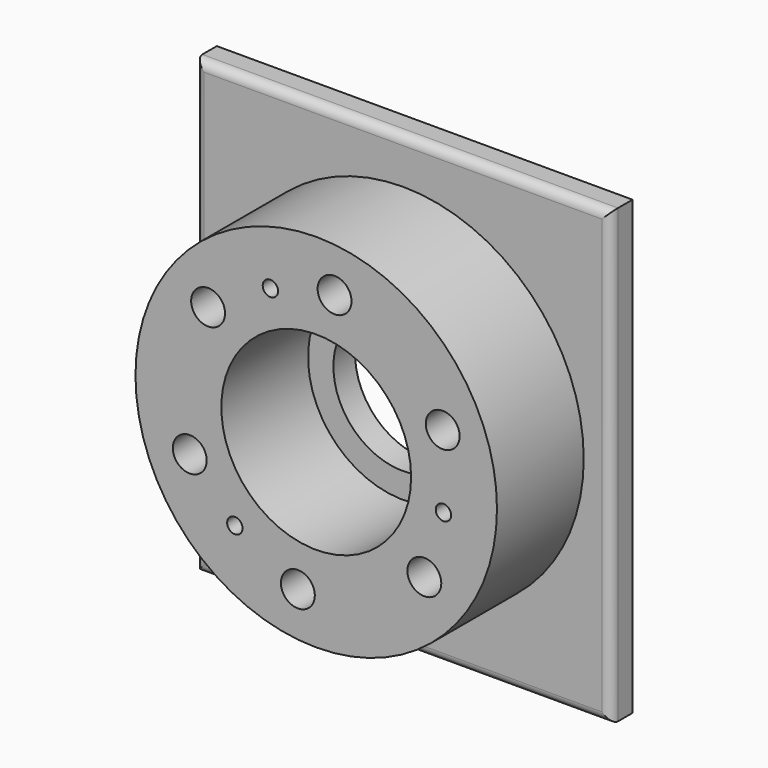
from build123d import *

# Parameters (mm, degrees)
F0_R     = 100
F0_R_2   = 52.5
F1_DEPTH = 60
F3_W     = 230
F3_H     = 250
F4_DEPTH = 15
F2_R     = 9.3755397544
F5_DEPTH = 75.001
F6_R     = 38.5
F7_DEPTH = 15.001
F9_D     = 8.5
F9_DEPTH = 16.5
F9_TIP   = 2.5536576309
F10_R    = 5


with BuildPart() as f1:
    # F0 (on Front) → F1 (new body)
    with BuildSketch(Plane.XZ):
        Circle(F0_R)
        Circle(F0_R_2, mode=Mode.SUBTRACT)
    extrude(amount=F1_DEPTH)

    # F3 (on face) → F4 (join)
    with BuildSketch(Plane(origin=(0, 0, 0), x_dir=(-1, 0, 0), z_dir=(0, 1, 0))):
        Rectangle(F3_W, F3_H)
    extrude(amount=F4_DEPTH)

    # F2 (on face) → F5 (cut, through all)
    with BuildSketch(Plane.XZ.offset(60)):
        with Locations((-59.8148740828, 46.2548695505)):
            Circle(F2_R)
        with Locations((-69.9653291208, -28.6737657046)):
            Circle(F2_R)
        with Locations((-10.150455038, -74.9286352551)):
            Circle(F2_R)
        with Locations((59.8148740828, -46.2548695505)):
            Circle(F2_R)
        with Locations((69.9653291208, 28.6737657046)):
            Circle(F2_R)
        with Locations((10.150455038, 74.9286352551)):
            Circle(F2_R)
    extrude(amount=-F5_DEPTH, mode=Mode.SUBTRACT)

    # F6 (on face) → F7 (cut, through all)
    with BuildSketch(Plane.XZ):
        Circle(F6_R)
    extrude(amount=-F7_DEPTH, mode=Mode.SUBTRACT)

    # F9
    with Locations(Plane.XZ.offset(60)):
        with Locations((-45.0271219015, -55.2673339844), (-25.3493542792, 66.6282984182), (70.3764761807, -11.3609644338)):
            Hole(F9_D / 2, depth=F9_DEPTH)
            with Locations((0, 0, -(F9_DEPTH + F9_TIP / 2))):  # 118° drill point
                Cone(0, F9_D / 2, F9_TIP, mode=Mode.SUBTRACT)

    # F10
    f10_edges = [f1.edges().sort_by_distance(p)[0] for p in [
        (0, 0, 125),
        (115, 0, 0),
        (0, 0, -125),
        (-115, 0, 0),
    ]]
    fillet(f10_edges, radius=F10_R)


solid = f1.part
